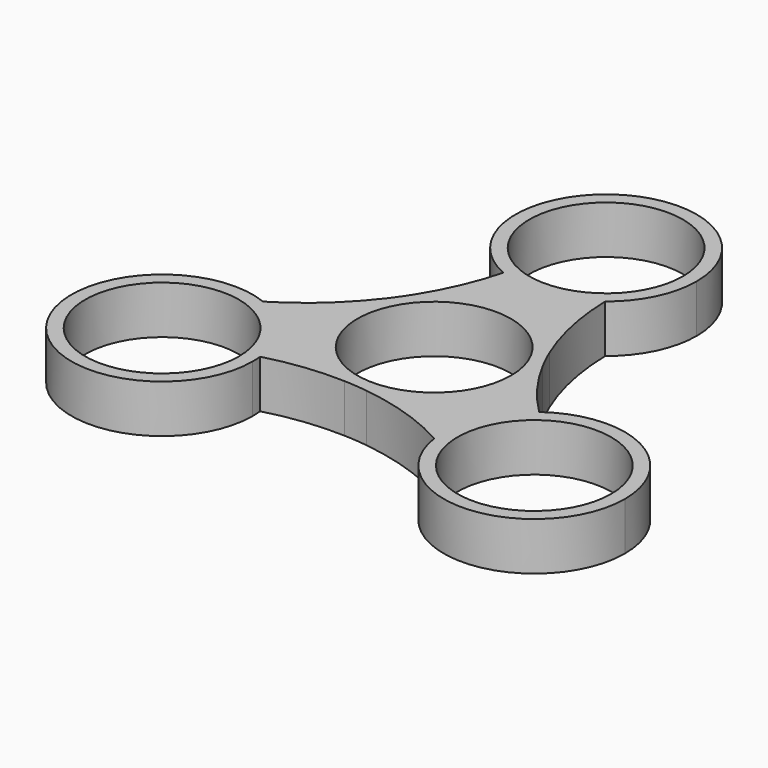
from build123d import *

# Parameters (mm, degrees)
F0_R     = 11.2
F1_DEPTH = 7


with BuildPart() as f1:
    # F0 (on Top) → F1 (new body)
    with BuildSketch(Plane.XY):
        with BuildLine():
            ThreePointArc((-5.3140176456, 19.2319211805), (1.6632130225, 18.2202199581), (8.1659804164, 20.9440597808))
            ThreePointArc((8.1659804164, 20.9440597808), (11.8749935052, 25.5509452113), (13.2, 31.3150174916))
            ThreePointArc((13.2, 31.3150174916), (-7.2143941907, 42.3690898842), (-5.3140176456, 19.2319211805))
        make_face()
        with Locations((0, 31.3150174916)):
            Circle(F0_R, mode=Mode.SUBTRACT)
        with BuildLine():
            ThreePointArc((-13.9196006677, -15.6575087458), (-13.939296065, -14.9366963), (-13.9983234831, -14.2180348675))
            ThreePointArc((-13.9983234831, -14.2180348675), (-16.6107798575, -7.6697252497), (-22.2210780368, -3.400083403))
            ThreePointArc((-22.2210780368, -3.400083403), (-38.0489304442, -23.0595186509), (-13.9196006677, -15.6575087458))
        make_face()
        with Locations((-27.1196006677, -15.6575087458)):
            Circle(F0_R, mode=Mode.SUBTRACT)
        with BuildLine():
            ThreePointArc((0.6623638429, -13.183371122), (9.565124221, -9.09661468), (13.2, 0))
            ThreePointArc((13.2, 0), (13.0393347088, 2.0532292498), (12.5612499466, 4.0564762761))
            ThreePointArc((12.5612499466, 4.0564762761), (11.7880076827, 5.5940019812), (11.0859523777, 7.1653094754))
            ThreePointArc((11.0859523777, 7.1653094754), (1.0616824394, 13.157234907), (-9.7936364782, 8.850123419))
            ThreePointArc((-9.7936364782, 8.850123419), (-10.7385516659, 7.4117131226), (-11.7483162206, 6.0180616465))
            ThreePointArc((-11.7483162206, 6.0180616465), (-11.9253408927, -5.6591734902), (-2.7676134684, -12.9065996951))
            ThreePointArc((-2.7676134684, -12.9065996951), (-1.0494560168, -13.0057151038), (0.6623638429, -13.183371122))
        make_face()
        Circle(F0_R, mode=Mode.SUBTRACT)
        with BuildLine():
            ThreePointArc((12.5612499466, 4.0564762761), (13.0393347088, 2.0532292498), (13.2, 0))
            ThreePointArc((13.2, 0), (9.565124221, -9.09661468), (0.6623638429, -13.183371122))
            ThreePointArc((0.6623638429, -13.183371122), (7.5647950779, -14.7307879991), (14.0550976203, -17.5439763778))
            ThreePointArc((14.0550976203, -17.5439763778), (14.947566835, -10.5504947085), (19.3123411287, -5.013886313))
            ThreePointArc((19.3123411287, -5.013886313), (15.5937950375, -0.7340010586), (12.5612499466, 4.0564762761))
        make_face()
        with BuildLine():
            ThreePointArc((40.3196006677, -15.6575087458), (33.0855110796, -3.8826239074), (19.3123411287, -5.013886313))
            ThreePointArc((19.3123411287, -5.013886313), (14.947566835, -10.5504947085), (14.0550976203, -17.5439763778))
            ThreePointArc((14.0550976203, -17.5439763778), (28.0652643963, -28.8235909312), (40.3196006677, -15.6575087458))
        make_face()
        with Locations((27.1196006677, -15.6575087458)):
            Circle(F0_R, mode=Mode.SUBTRACT)
        with BuildLine():
            ThreePointArc((-9.7936364782, 8.850123419), (1.0616824394, 13.157234907), (11.0859523777, 7.1653094754))
            ThreePointArc((11.0859523777, 7.1653094754), (8.9748390861, 13.9166987115), (8.1659804164, 20.9440597808))
            ThreePointArc((8.1659804164, 20.9440597808), (1.6632130225, 18.2202199581), (-5.3140176456, 19.2319211805))
            ThreePointArc((-5.3140176456, 19.2319211805), (-7.1612339556, 13.8716231732), (-9.7936364782, 8.850123419))
        make_face()
        with BuildLine():
            ThreePointArc((-13.9983234831, -14.2180348675), (-8.432561082, -13.1376221146), (-2.7676134684, -12.9065996951))
            ThreePointArc((-2.7676134684, -12.9065996951), (-11.9253408927, -5.6591734902), (-11.7483162206, 6.0180616465))
            ThreePointArc((-11.7483162206, 6.0180616465), (-16.539634164, 0.8140892877), (-22.2210780368, -3.400083403))
            ThreePointArc((-22.2210780368, -3.400083403), (-16.6107798575, -7.6697252497), (-13.9983234831, -14.2180348675))
        make_face()
    extrude(amount=F1_DEPTH)


solid = f1.part
